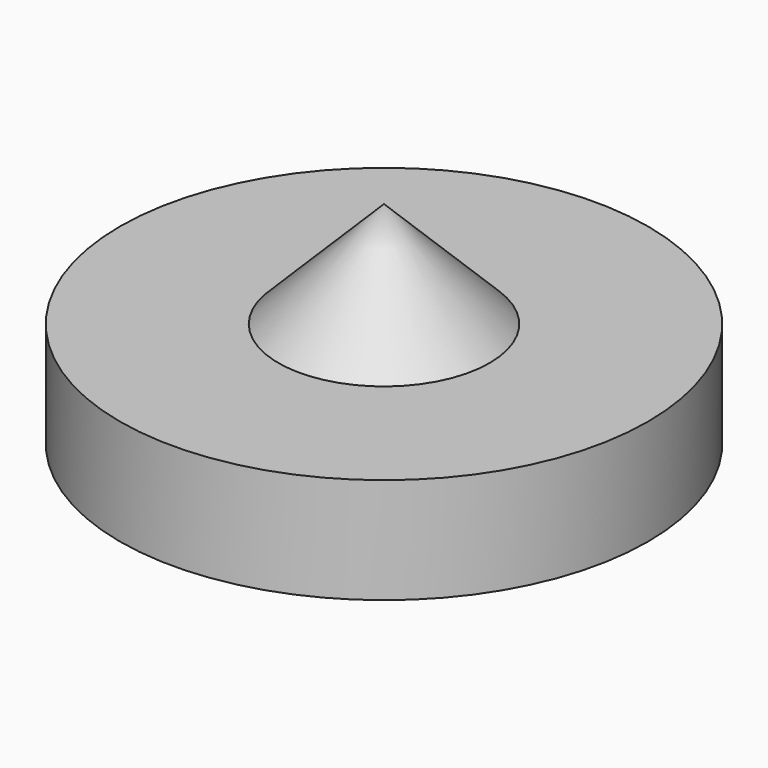
from build123d import *

# Parameters (mm, degrees)
F1_R     = 2.54
F0_R     = 6.35
F5_DEPTH = 2.54


with BuildPart() as f4:
    # F1 (on Top) → F4 section 0
    with BuildSketch(Plane.XY, mode=Mode.PRIVATE) as f4_s0:
        Circle(F1_R)
    loft([Vertex(0, 0, 2.54), f4_s0.sketch])


with BuildPart() as f5:
    # F0 (on Top) → F5 (new body)
    with BuildSketch(Plane.XY):
        Circle(F0_R)
    extrude(amount=-F5_DEPTH)


solid = Compound([f4.part, f5.part])
